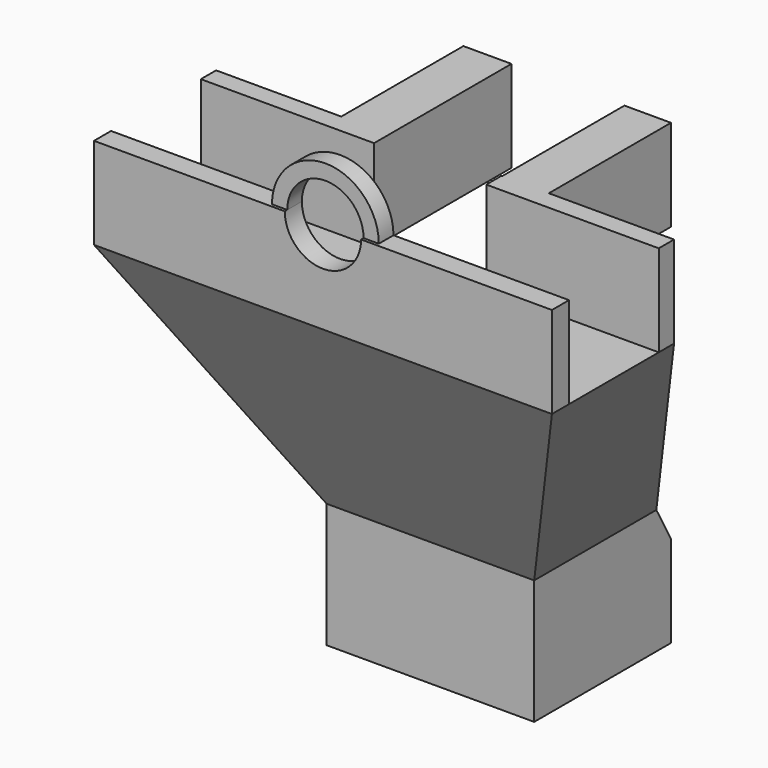
from build123d import *

# Parameters (mm, degrees)
F0_W      = 7.6
F0_H      = 6
F1_DEPTH  = 30
F2_W      = 10.2
F2_H      = 1.2
F2_W_2    = 7.35
F2_W_3    = 10.05
F2_W_4    = 1.2
F3_DEPTH  = 10
F4_W      = 3.1
F4_H      = 6
F4_W_2    = 3.15
F5_DEPTH  = 25
F4_W_3    = 7.35
F6_DEPTH  = 3
F2_H_2    = 10
F7_DEPTH  = 30.8
F8_DEPTH  = 25
F9_W      = 8.2
F9_H      = 8.16
F10_DEPTH = 25
F12_DEPTH = 25
F14_DEPTH = 25
F15_DEPTH = 1.2


with BuildPart() as f1:
    # F0 (on Right) → F1 (new body)
    with BuildSketch(Plane.YZ):
        Polygon((-18.5999230509, 30.0000671301), (-19.9999230509, 30.0000671301), (-19.9999230509, 24.0000671301), (-9.9999230509, 6.0000671301), (-9.9999230509, 6.71301e-05), (-8.7999230509, 6.71301e-05), (-8.7999230509, 6.0000671301), (-18.5999230509, 24.0000671301), align=None)
        Polygon((-11.2499230509, 24.0000671301), (-18.5999230509, 24.0000671301), (-8.7999230509, 6.0000671301), (-1.1999230509, 6.0000671301), align=None)
        Polygon((-9.9999230509, 30.0000671301), (-11.2499230509, 30.0000671301), (-11.2499230509, 24.0000671301), (-1.1999230509, 6.0000671301), (-1.1999230509, 6.71301e-05), (7.69491e-05, 6.71301e-05), (7.69491e-05, 6.0000671301), (-9.9999230509, 24.0000671301), align=None)
        with Locations((-4.9999230509, 3.0000671301)):
            Rectangle(F0_W, F0_H)
    extrude(amount=F1_DEPTH)

    # F2 (on face) → F3 (join)
    with BuildSketch(Plane(origin=(0, 0, 6.71301e-05), x_dir=(1, 0, 0), z_dir=(0, 0, -1))):
        with Locations((5.1, 10.5999230509)):
            Rectangle(F2_W, F2_H)
        with Locations((15.075, 10.5999230509)):
            Rectangle(F2_W_2, F2_H)
        with Locations((24.975, 10.5999230509)):
            Rectangle(F2_W_3, F2_H)
        with Locations((10.8, 10.5999230509)):
            Rectangle(F2_W_4, F2_H)
        with Locations((19.35, 10.5999230509)):
            Rectangle(F2_W_4, F2_H)
    extrude(amount=-F3_DEPTH)

    # F4 (on face) → F5 (join)
    with BuildSketch(Plane(origin=(0, -9.9999230509, 0), x_dir=(-1, 0, 0), z_dir=(0, 1, 0))):
        with Locations((-20.25, 27.0000671301)):
            Rectangle(F4_W, F4_H)
        with Locations((-9.775, 27.0000671301)):
            Rectangle(F4_W_2, F4_H)
    extrude(amount=F5_DEPTH)

    # F4 (on face) → F6 (cut)
    with BuildSketch(Plane(origin=(0, -9.9999230509, 0), x_dir=(-1, 0, 0), z_dir=(0, 1, 0))):
        with Locations((-15.025, 27.0000671301)):
            Rectangle(F4_W_3, F4_H)
    extrude(amount=-F6_DEPTH, mode=Mode.SUBTRACT)

    # F2 (on face) → F7 (cut)
    with BuildSketch(Plane(origin=(0, 0, 6.71301e-05), x_dir=(1, 0, 0), z_dir=(0, 0, -1))):
        with Locations((15.075, 4.9999230509)):
            Rectangle(F2_W_2, F2_H_2)
    extrude(amount=-F7_DEPTH, mode=Mode.SUBTRACT)

    # F0 (on Right) → F8 (cut)
    with BuildSketch(Plane.YZ):
        Polygon((7.69491e-05, 51.0639390725), (7.69491e-05, 30.0000671301), (7.69491e-05, 6.0000671301), (43.8302202369, 6.0000671301), (43.8302202369, 51.0639390725), align=None)
    extrude(amount=F8_DEPTH, mode=Mode.SUBTRACT)

    # F9 (on face) → F10 (cut)
    with BuildSketch(Plane.XZ.offset(11.1999230509)):
        with Locations((4.1, 4.0800671301)):
            Rectangle(F9_W, F9_H)
        with Locations((25.9, 4.0800671301)):
            Rectangle(F9_W, F9_H)
    extrude(amount=-F10_DEPTH, mode=Mode.SUBTRACT)

    # F11 (on Front) → F12 (cut)
    with BuildSketch(Plane.XZ):
        Polygon((0, 24), (0, 8.16), (8.2, 8.16), align=None)
        Polygon((30, 24), (21.8, 8.16), (30, 8.16), align=None)
    extrude(amount=F12_DEPTH, mode=Mode.SUBTRACT)

    # F13 (on face) → F14 (cut)
    with BuildSketch(Plane(origin=(0, -18.5999230509, 0), x_dir=(-1, 0, 0), z_dir=(0, 1, 0))):
        with BuildLine():
            ThreePointArc((-17.5, 30.0000671301), (-17.466917068, 29.5947028748), (-17.3685438565, 29.2000671301))
            ThreePointArc((-17.3685438565, 29.2000671301), (-14.5946357448, 27.533150062), (-12.5, 30.0000671301))
            Line((-12.5, 30.0000671301), (-17.5, 30.0000671301))
        make_face()
        with BuildLine():
            ThreePointArc((-17.5, 30.0000671301), (-17.466917068, 29.5947028748), (-17.3685438565, 29.2000671301))
            ThreePointArc((-17.3685438565, 29.2000671301), (-14.5946357448, 27.533150062), (-12.5, 30.0000671301))
            Line((-12.5, 30.0000671301), (-17.5, 30.0000671301))
        make_face()
    extrude(amount=-F14_DEPTH, mode=Mode.SUBTRACT)

    # F13 (on face) → F15 (join)
    with BuildSketch(Plane(origin=(0, -18.5999230509, 0), x_dir=(-1, 0, 0), z_dir=(0, 1, 0))):
        with BuildLine():
            ThreePointArc((-11.5, 30.0000671301), (-15.4026738592, 33.4768262191), (-18.4073450075, 29.2000671301))
            ThreePointArc((-18.4073450075, 29.2000671301), (-14.5973261408, 26.523308041), (-11.5, 30.0000671301))
        make_face()
        with BuildLine():
            ThreePointArc((-12.5, 30.0000671301), (-14.5946357448, 27.533150062), (-17.3685438565, 29.2000671301))
            ThreePointArc((-17.3685438565, 29.2000671301), (-15.4053642552, 32.4669841981), (-12.5, 30.0000671301))
        make_face(mode=Mode.SUBTRACT)
    extrude(amount=-F15_DEPTH)


solid = f1.part
